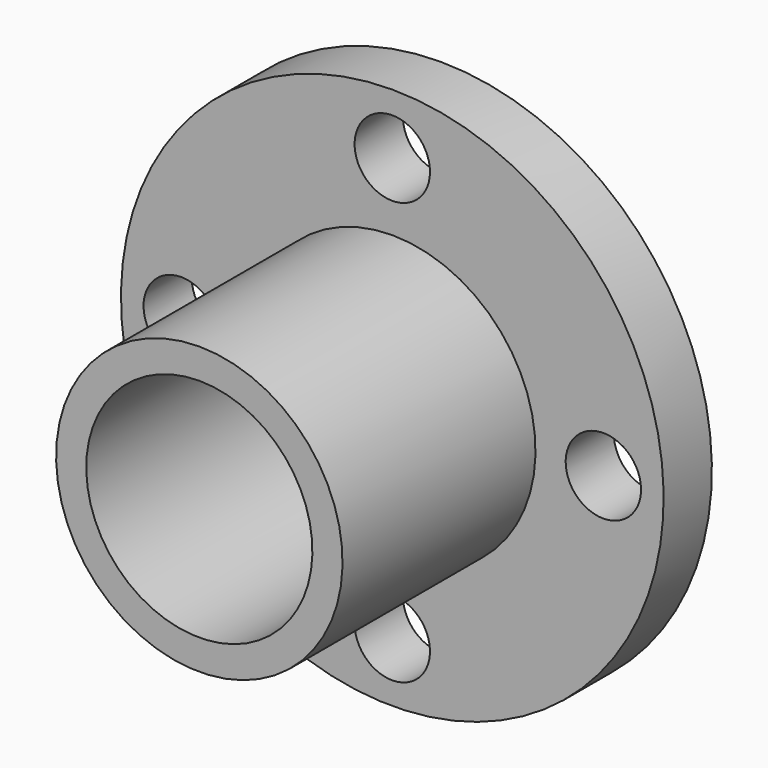
from build123d import *

# Parameters (mm, degrees)
F2_R     = 12.5
F3_DEPTH = 20.001
F4_COUNT = 4


with BuildPart() as f1:
    # F0 (on Right) → F1 (revolve)
    with BuildSketch(Plane.YZ):
        Polygon((-100, 37.5), (0, 37.5), (0, 90), (-20, 90), (-20, 47.5), (-100, 47.5), align=None)
    revolve(axis=Axis((0, -53.3100684511, 0), (0, -1, 0)))

    # F2 (on face) → F3 (cut, through all)
    with BuildSketch(Plane.XZ.offset(20)):
        with Locations((0, 70)):
            Circle(F2_R)
    f3 = extrude(amount=-F3_DEPTH, mode=Mode.SUBTRACT)

    # F4: F3 ×4 about axis
    f4_axis = Axis((0, -100, 0), (0, 1, 0))
    for i in range(1, F4_COUNT):
        add(f3.rotate(f4_axis, i * 360 / F4_COUNT), mode=Mode.SUBTRACT)


solid = f1.part
